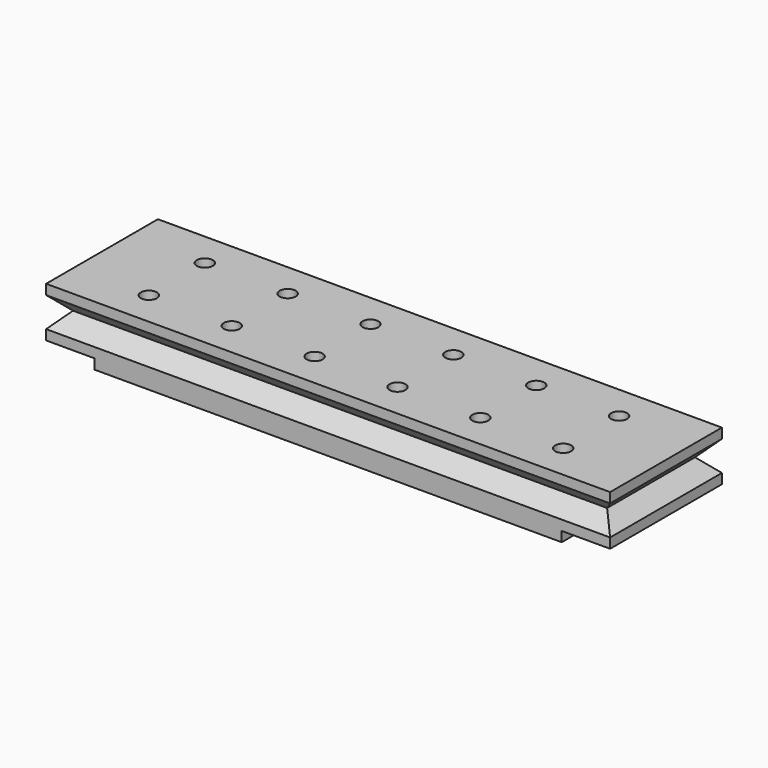
from build123d import *

# Parameters (mm, degrees)
SKETCH_W        = 113
SKETCH_H        = 28
SKETCH_R        = 1.6
PAD_DEPTH       = 10
SKETCH001_W     = 93.6
SKETCH001_H     = 28
SKETCH001_W_2   = 5.2
SKETCH001_H_2   = 5.2
PAD001_DEPTH    = 2
POCKET_DEPTH    = 113.001
SKETCH003_W     = 5.2
SKETCH003_H     = 7.2
POCKET001_DEPTH = 1
POCKET002_DEPTH = 28.001


with BuildPart() as part:
    # Sketch → Pad (new body)
    with BuildSketch(Plane.XY):
        with Locations((41.5, 7)):
            Rectangle(SKETCH_W, SKETCH_H)
        Circle(SKETCH_R, mode=Mode.SUBTRACT)
        with Locations((0, 14)):
            Circle(SKETCH_R, mode=Mode.SUBTRACT)
        with Locations((16.6, 0)):
            Circle(SKETCH_R, mode=Mode.SUBTRACT)
        with Locations((16.6, 14)):
            Circle(SKETCH_R, mode=Mode.SUBTRACT)
        with Locations((33.2, 0)):
            Circle(SKETCH_R, mode=Mode.SUBTRACT)
        with Locations((33.2, 14)):
            Circle(SKETCH_R, mode=Mode.SUBTRACT)
        with Locations((49.8, 0)):
            Circle(SKETCH_R, mode=Mode.SUBTRACT)
        with Locations((49.8, 14)):
            Circle(SKETCH_R, mode=Mode.SUBTRACT)
        with Locations((66.4, 0)):
            Circle(SKETCH_R, mode=Mode.SUBTRACT)
        with Locations((66.4, 14)):
            Circle(SKETCH_R, mode=Mode.SUBTRACT)
        with Locations((83, 0)):
            Circle(SKETCH_R, mode=Mode.SUBTRACT)
        with Locations((83, 14)):
            Circle(SKETCH_R, mode=Mode.SUBTRACT)
    extrude(amount=PAD_DEPTH)

    # Sketch001 → Pad001 (join)
    with BuildSketch(Plane.XY):
        with Locations((41.5, 7)):
            Rectangle(SKETCH001_W, SKETCH001_H)
        Rectangle(SKETCH001_W_2, SKETCH001_H_2, mode=Mode.SUBTRACT)
        with Locations((0, 14)):
            Rectangle(SKETCH001_W_2, SKETCH001_H_2, mode=Mode.SUBTRACT)
        with Locations((16.6, 0)):
            Rectangle(SKETCH001_W_2, SKETCH001_H_2, mode=Mode.SUBTRACT)
        with Locations((16.6, 14)):
            Rectangle(SKETCH001_W_2, SKETCH001_H_2, mode=Mode.SUBTRACT)
        with Locations((33.2, 0)):
            Rectangle(SKETCH001_W_2, SKETCH001_H_2, mode=Mode.SUBTRACT)
        with Locations((33.2, 14)):
            Rectangle(SKETCH001_W_2, SKETCH001_H_2, mode=Mode.SUBTRACT)
        with Locations((49.8, 0)):
            Rectangle(SKETCH001_W_2, SKETCH001_H_2, mode=Mode.SUBTRACT)
        with Locations((49.8, 14)):
            Rectangle(SKETCH001_W_2, SKETCH001_H_2, mode=Mode.SUBTRACT)
        with Locations((66.4, 0)):
            Rectangle(SKETCH001_W_2, SKETCH001_H_2, mode=Mode.SUBTRACT)
        with Locations((66.4, 14)):
            Rectangle(SKETCH001_W_2, SKETCH001_H_2, mode=Mode.SUBTRACT)
        with Locations((83, 0)):
            Rectangle(SKETCH001_W_2, SKETCH001_H_2, mode=Mode.SUBTRACT)
        with Locations((83, 14)):
            Rectangle(SKETCH001_W_2, SKETCH001_H_2, mode=Mode.SUBTRACT)
    extrude(amount=-PAD001_DEPTH)

    # Sketch002 (on Face2 of Pad001) → Pocket (cut, through all)
    with BuildSketch(Plane(origin=(-15, 0, 0), x_dir=(0, -1, 0), z_dir=(-1, 0, 0))):
        Polygon((-21, 8), (-21, 2), (-18, 5), align=None)
        Polygon((7, 2), (7, 8), (4, 5), align=None)
    extrude(amount=-POCKET_DEPTH, mode=Mode.SUBTRACT)

    # Sketch003 → Pocket001 (cut)
    with BuildSketch(Plane.XY.offset(-2)):
        Rectangle(SKETCH003_W, SKETCH003_H)
        with Locations((0, 14)):
            Rectangle(SKETCH003_W, SKETCH003_H)
        with Locations((16.6, 0)):
            Rectangle(SKETCH003_W, SKETCH003_H)
        with Locations((16.6, 14)):
            Rectangle(SKETCH003_W, SKETCH003_H)
        with Locations((33.2, 0)):
            Rectangle(SKETCH003_W, SKETCH003_H)
        with Locations((33.2, 14)):
            Rectangle(SKETCH003_W, SKETCH003_H)
        with Locations((49.8, 0)):
            Rectangle(SKETCH003_W, SKETCH003_H)
        with Locations((49.8, 14)):
            Rectangle(SKETCH003_W, SKETCH003_H)
        with Locations((66.4, 0)):
            Rectangle(SKETCH003_W, SKETCH003_H)
        with Locations((66.4, 14)):
            Rectangle(SKETCH003_W, SKETCH003_H)
        with Locations((83, 0)):
            Rectangle(SKETCH003_W, SKETCH003_H)
        with Locations((83, 14)):
            Rectangle(SKETCH003_W, SKETCH003_H)
    extrude(amount=POCKET001_DEPTH, mode=Mode.SUBTRACT)

    # Sketch004 (on Face16 of Pocket001) → Pocket002 (cut, through all)
    with BuildSketch(Plane.XZ.offset(7)):
        Polygon((98, 8), (95, 5), (98, 2), align=None)
        Polygon((-15, 8), (-12, 5), (-15, 2), align=None)
    extrude(amount=-POCKET002_DEPTH, mode=Mode.SUBTRACT)


solid = part.part
